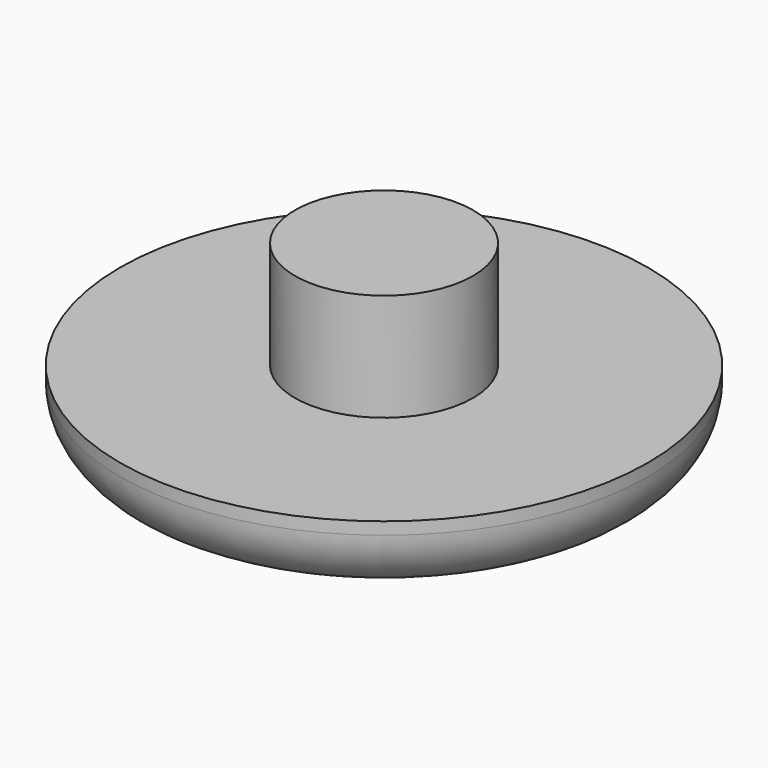
from build123d import *

# Parameters (mm, degrees)
F0_R     = 10.922
F1_DEPTH = 3.048
F2_R     = 2.54
F3_R     = 3.683
F4_DEPTH = 4.445


with BuildPart() as f1:
    # F0 (on Top) → F1 (new body)
    with BuildSketch(Plane.XY):
        Circle(F0_R)
    extrude(amount=F1_DEPTH)

    # F2
    f2_edges = [f1.edges().sort_by_distance(p)[0] for p in [
        (-10.922, 0, 0),
    ]]
    fillet(f2_edges, radius=F2_R)

    # F3 (on face) → F4 (join)
    with BuildSketch(Plane.XY.offset(3.048)):
        Circle(F3_R)
    extrude(amount=F4_DEPTH)


solid = f1.part
